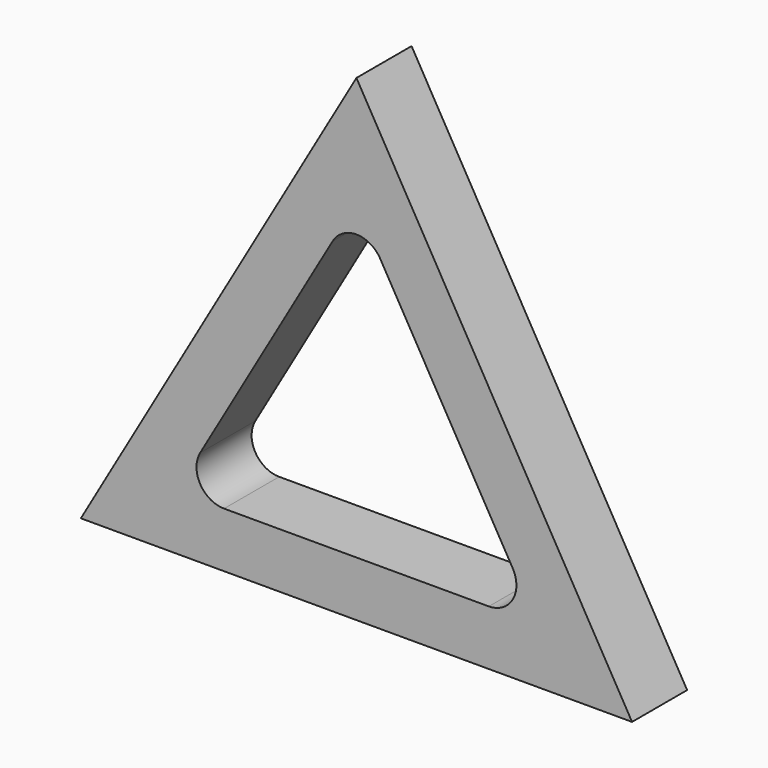
from build123d import *

# Parameters (mm, degrees)
F1_DEPTH = 1.5875
F3_DEPTH = 3.176
F4_R     = 1.27


with BuildPart() as f1:
    # F0 (on Front) → F1 (new body, symmetric)
    with BuildSketch(Plane.XZ):
        Polygon((12.7, 0), (0, 21.997045), (-12.7, 0), align=None)
    extrude(amount=F1_DEPTH, both=True)

    # F2 (on face) → F3 (cut, through all)
    with BuildSketch(Plane.XZ.offset(1.5875)):
        Polygon((8.300591, 2.54), (0, 16.917045), (-8.300591, 2.54), align=None)
    extrude(amount=-F3_DEPTH, mode=Mode.SUBTRACT)

    # F4
    f4_edges = [f1.edges().sort_by_distance(p)[0] for p in [
        (0, 0, 16.917045),
        (8.300591, 0, 2.54),
        (-8.300591, 0, 2.54),
    ]]
    fillet(f4_edges, radius=F4_R)


solid = f1.part
